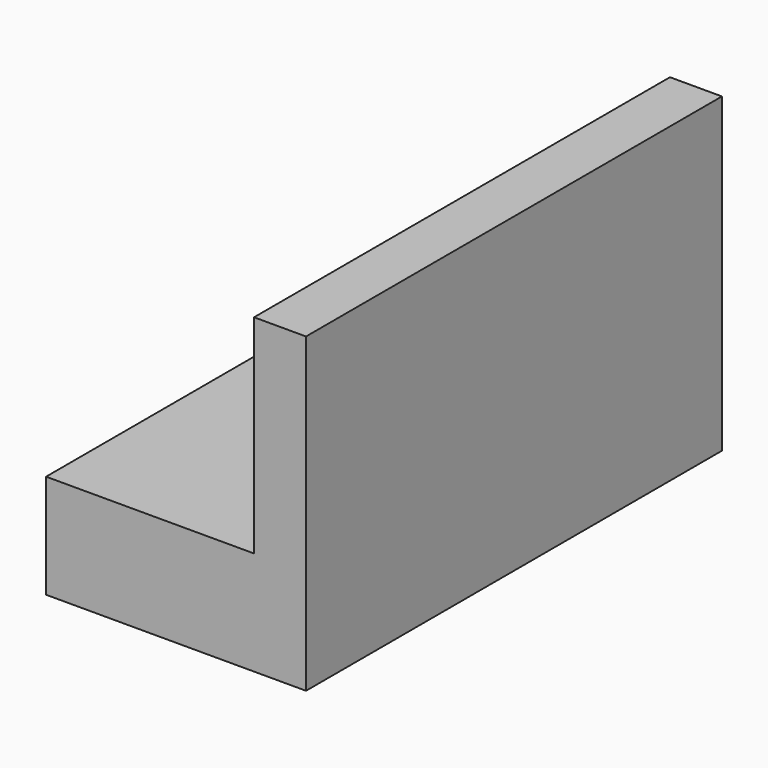
from build123d import *

# Parameters (mm, degrees)
F1_DEPTH = 25.4
F2_DEPTH = 101.6
F3_W     = 127
F3_H     = 50.8
F5_DEPTH = 25.4


with BuildPart() as f1:
    # F0 (on Front) → F1 (new body)
    with BuildSketch(Plane.XZ):
        Polygon((-6.504758, -12.474676), (-31.904758, -12.474676), (-31.904758, -37.874676), (31.595242, -37.874676), (31.595242, 38.325324), (-6.504758, 38.325324), align=None)
    extrude(amount=F1_DEPTH)

    # F1_face (on face) → F2 (join)
    with BuildSketch(Plane(origin=(6.772515, -25.4, -4.392858), x_dir=(1, 0, 0), z_dir=(0, -1, 0))):
        Polygon((-13.277273, 42.718182), (-13.277273, -8.081818), (-38.677273, -8.081818), (-38.677273, -33.481818), (24.822727, -33.481818), (24.822727, 42.718182), align=None)
    extrude(amount=F2_DEPTH)

    # F3 (on face) → F5 (cut)
    with BuildSketch(Plane(origin=(-6.504758, 0, 0), x_dir=(0, -1, 0), z_dir=(-1, 0, 0))):
        with Locations((63.5, 12.925324)):
            Rectangle(F3_W, F3_H)
    extrude(amount=-F5_DEPTH, mode=Mode.SUBTRACT)


solid = f1.part
